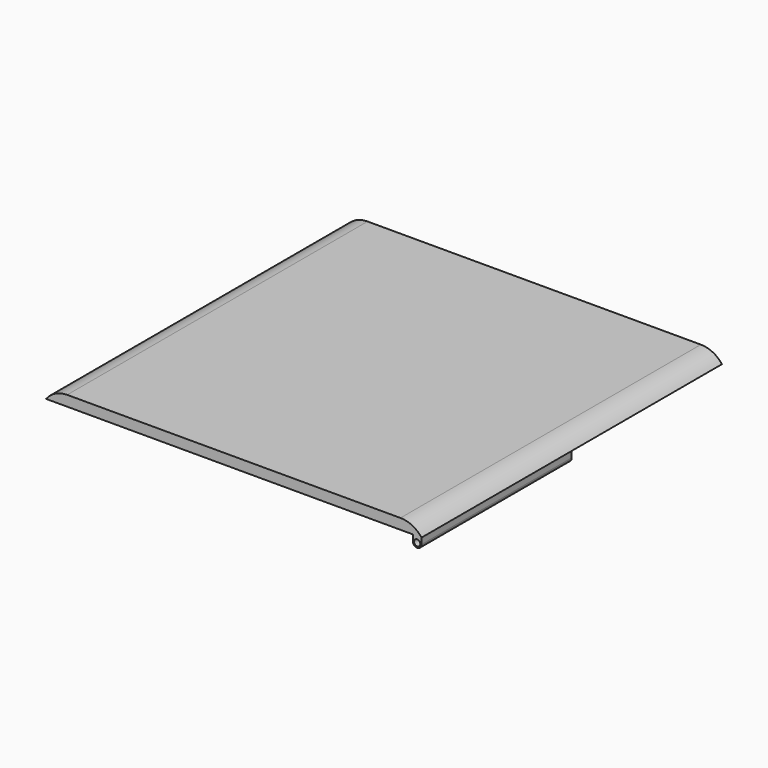
from build123d import *

# Parameters (mm, degrees)
F1_W     = 914.4
F1_H     = 914.4
F2_DEPTH = 25.4
F4_DEPTH = 914.4
F6_R     = 7.62
F7_DEPTH = 457.2
F8_DEPTH = 457.2


with BuildPart() as f2:
    # F1 (on offset) → F2 (new body)
    with BuildSketch(Plane.XY.offset(914.4)):
        Rectangle(F1_W, F1_H)
    extrude(amount=-F2_DEPTH)

    # F3 (on face) → F4 (cut, through all)
    with BuildSketch(Plane.XZ.offset(457.2)):
        with BuildLine():
            ThreePointArc((-457.2, 889), (-434.4934859844, 907.702903129), (-405.8485342879, 914.4))
            Line((-405.8485342879, 914.4), (-457.2, 914.4))
            Line((-457.2, 914.4), (-457.2, 889))
        make_face()
        with BuildLine():
            Line((457.2, 889), (457.2, 914.4))
            Line((457.2, 914.4), (405.8485342879, 914.4))
            ThreePointArc((405.8485342879, 914.4), (434.4934859844, 907.702903129), (457.2, 889))
        make_face()
    extrude(amount=-F4_DEPTH, mode=Mode.SUBTRACT)

    # F6 (on Front) → F7 (join, through all)
    with BuildSketch(Plane.XZ):
        with BuildLine():
            Line((-457.2, 889), (-457.2, 874.268))
            ThreePointArc((-457.2, 874.268), (-446.532, 863.6), (-435.864, 874.268))
            Line((-435.864, 874.268), (-435.864, 889))
            Line((-435.864, 889), (-457.2, 889))
        make_face()
        with Locations((-446.532, 874.268)):
            Circle(F6_R, mode=Mode.SUBTRACT)
    extrude(amount=-F7_DEPTH)

    # F6 (on Front) → F8 (join, through all)
    with BuildSketch(Plane.XZ):
        with BuildLine():
            Line((435.864, 889), (435.864, 874.268))
            ThreePointArc((435.864, 874.268), (446.532, 863.6), (457.2, 874.268))
            Line((457.2, 874.268), (457.2, 889))
            Line((457.2, 889), (435.864, 889))
        make_face()
        with Locations((446.532, 874.268)):
            Circle(F6_R, mode=Mode.SUBTRACT)
    extrude(amount=F8_DEPTH)


solid = f2.part
